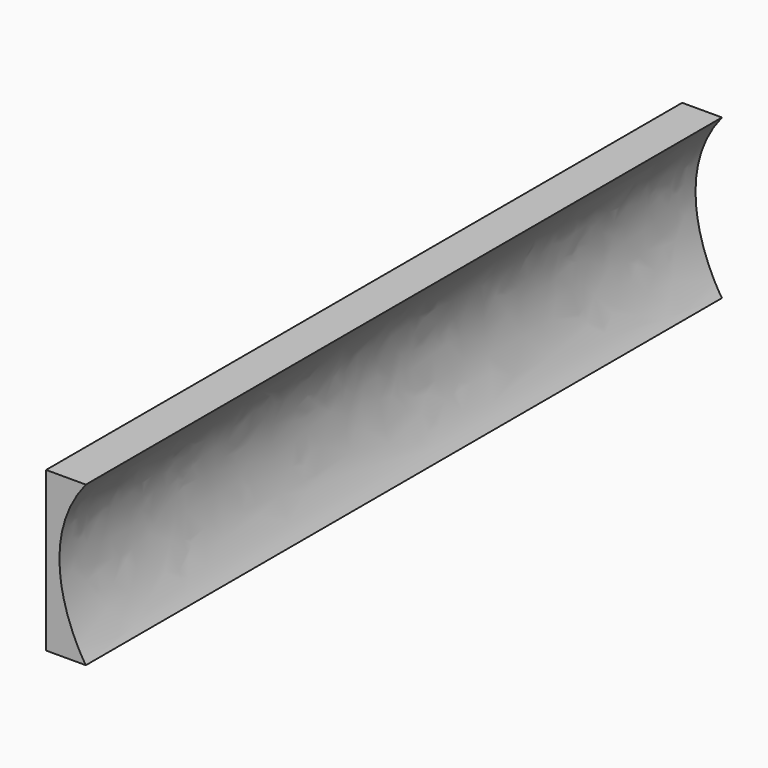
from build123d import *

# Parameters (mm, degrees)
F1_DEPTH = 50


with BuildPart() as f1:
    # F0 (on Front) → F1 (new body)
    with BuildSketch(Plane.XZ):
        with BuildLine():
            Line((0, 10), (0, 0))
            Line((0, 0), (2.5, 0))
            add(Edge.make_bspline(
                [(2.5, 10), (-0.741296, 6.024061), (1.609732, 1.322007), (2.5, 0)],
                knots=[0, 0, 0, 0, 10, 10, 10, 10], degree=3))
            Line((2.5, 10), (0, 10))
        make_face()
    extrude(amount=F1_DEPTH)


solid = f1.part
